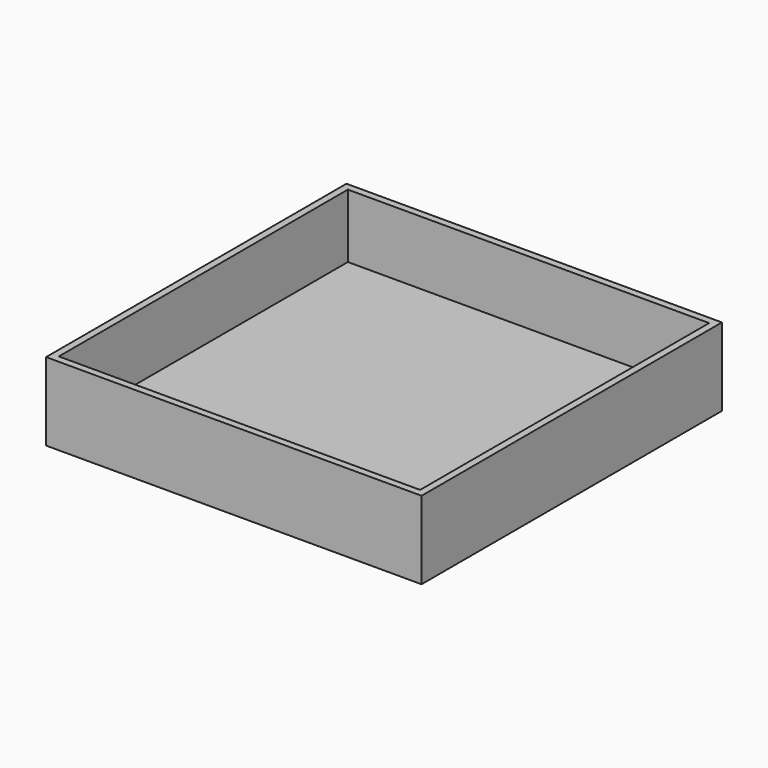
from build123d import *

# Parameters (mm, degrees)
F0_W     = 53
F0_H     = 53.000004
F1_DEPTH = 10
F2_W     = 53
F2_H     = 53.000004
F2_W_2   = 51
F2_H_2   = 51.000002
F3_DEPTH = 1
F4_W     = 51
F4_H     = 51.000002
F5_DEPTH = 9


with BuildPart() as f1:
    # F0 (on Top) → F1 (new body)
    with BuildSketch(Plane.XY):
        Rectangle(F0_W, F0_H)
    extrude(amount=F1_DEPTH)

    # F2 (on face) → F3 (join)
    with BuildSketch(Plane(origin=(0, 0, 0), x_dir=(1, 0, 0), z_dir=(0, 0, -1))):
        Rectangle(F2_W, F2_H)
        Rectangle(F2_W_2, F2_H_2, mode=Mode.SUBTRACT)
    extrude(amount=F3_DEPTH)

    # F4 (on face) → F5 (cut)
    with BuildSketch(Plane.XY.offset(10)):
        Rectangle(F4_W, F4_H)
    extrude(amount=-F5_DEPTH, mode=Mode.SUBTRACT)


solid = f1.part
